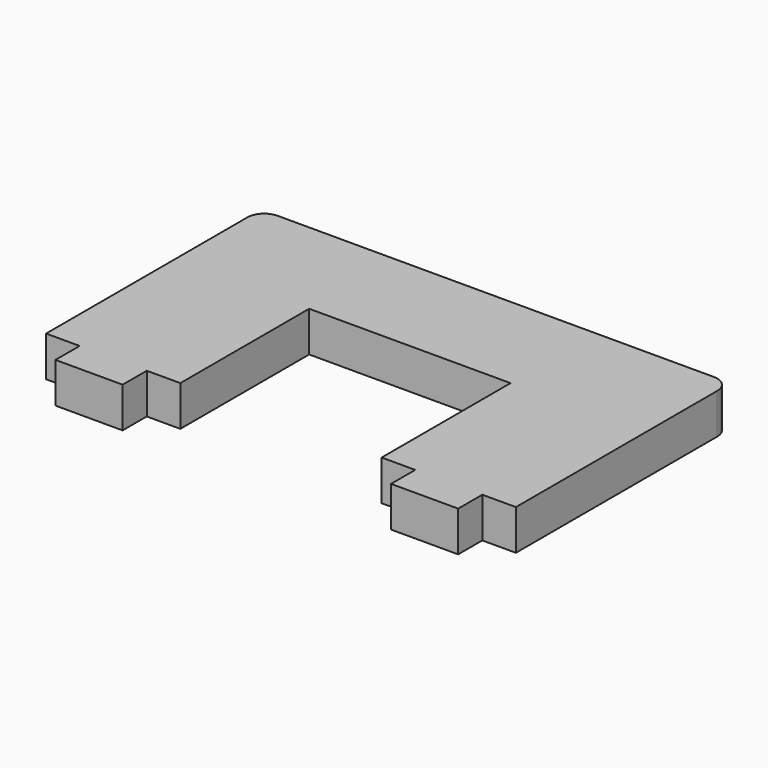
from build123d import *

# Parameters (mm, degrees)
F1_DEPTH = 6


with BuildPart() as f1:
    # F0 (on Top) → F1 (new body)
    with BuildSketch(Plane.XY):
        with BuildLine():
            Line((32.5, 16), (-32.5, 16))
            ThreePointArc((-32.5, 16), (-34.267767, 15.267767), (-35, 13.5))
            Line((-35, 13.5), (-35, -24))
            Line((-35, -24), (-30, -24))
            Line((-30, -24), (-30, -28.5))
            Line((-30, -28.5), (-20, -28.5))
            Line((-20, -28.5), (-20, -24))
            Line((-20, -24), (-15, -24))
            Line((-15, -24), (-15, 0))
            Line((-15, 0), (15, 0))
            Line((15, 0), (15, -24))
            Line((15, -24), (20, -24))
            Line((20, -24), (20, -28.5))
            Line((20, -28.5), (30, -28.5))
            Line((30, -28.5), (30, -24))
            Line((30, -24), (35, -24))
            Line((35, -24), (35, 13.5))
            ThreePointArc((35, 13.5), (34.267767, 15.267767), (32.5, 16))
        make_face()
    extrude(amount=F1_DEPTH)


solid = f1.part
